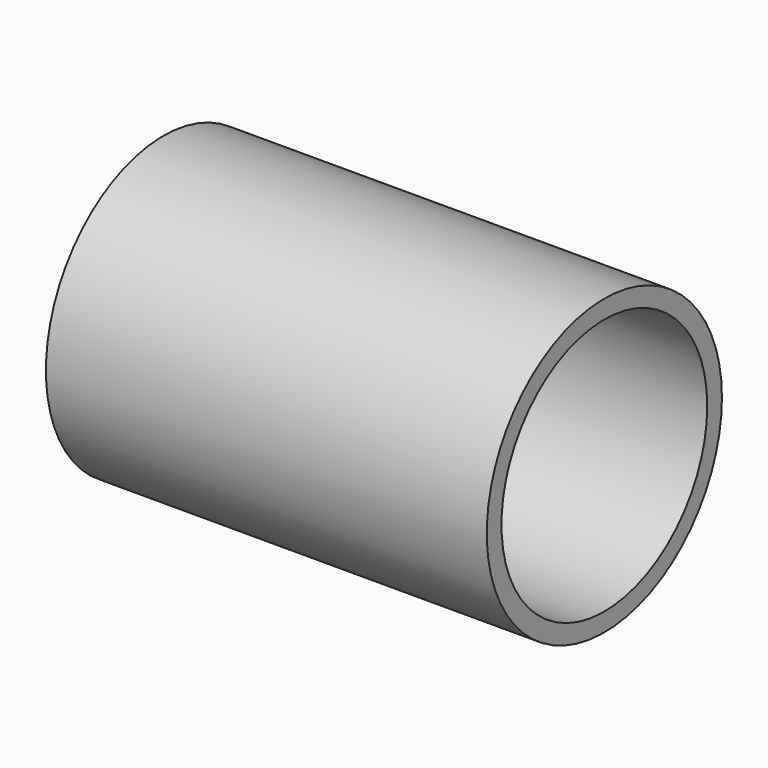
from build123d import *

# Parameters (mm, degrees)
F0_R     = 25.4
F1_DEPTH = 38.1
F2_R     = 22.225
F3_DEPTH = 33.7058
F4_R     = 5.08
F4_R_2   = 8.636
F5_DEPTH = 9.525


with BuildPart() as f1:
    # F0 (on Right) → F1 (new body, symmetric)
    with BuildSketch(Plane.YZ):
        Circle(F0_R)
    extrude(amount=F1_DEPTH, both=True)

    # F2 (on face) → F3 (cut)
    with BuildSketch(Plane.YZ.offset(38.1)):
        Circle(F2_R)
    extrude(amount=-F3_DEPTH, mode=Mode.SUBTRACT)

    # F4 (on face) → F5 (cut)
    with BuildSketch(Plane.YZ.offset(4.3942)):
        with BuildLine():
            ThreePointArc((-7.043346, 12.123346), (-10.179314, 16.816654), (-15.715448, 15.715448))
            ThreePointArc((-15.715448, 15.715448), (-14.067378, 7.430038), (-7.043346, 12.123346))
        make_face()
        with BuildLine():
            ThreePointArc((-12.065, 0), (-17.145, 5.08), (-22.225, 0))
            ThreePointArc((-22.225, 0), (-17.145, -5.08), (-12.065, 0))
        make_face()
        with BuildLine():
            ThreePointArc((-7.043346, -12.123346), (-14.067378, -7.430038), (-15.715448, -15.715448))
            ThreePointArc((-15.715448, -15.715448), (-10.179314, -16.816654), (-7.043346, -12.123346))
        make_face()
        with BuildLine():
            ThreePointArc((5.08, -17.145), (-3.592102, -13.552898), (0, -22.225))
            ThreePointArc((0, -22.225), (3.592102, -20.737102), (5.08, -17.145))
        make_face()
        with BuildLine():
            ThreePointArc((17.203346, -12.123346), (7.430038, -10.179314), (15.715448, -15.715448))
            ThreePointArc((15.715448, -15.715448), (16.816654, -14.067378), (17.203346, -12.123346))
        make_face()
        with Locations((17.145, 0)):
            Circle(F4_R)
        with BuildLine():
            ThreePointArc((17.203346, 12.123346), (16.816654, 14.067378), (15.715448, 15.715448))
            ThreePointArc((15.715448, 15.715448), (7.430038, 10.179314), (17.203346, 12.123346))
        make_face()
        with BuildLine():
            ThreePointArc((0, 22.225), (-3.592102, 13.552898), (5.08, 17.145))
            ThreePointArc((5.08, 17.145), (3.592102, 20.737102), (0, 22.225))
        make_face()
        Circle(F4_R_2)
    extrude(amount=-F5_DEPTH, mode=Mode.SUBTRACT)

    # F6 (on Top) → F7 (revolve, cut)
    with BuildSketch(Plane.XY):
        Polygon((0, 22.225), (-5.1308, 22.225), (-12.671425, 14.684375), (-38.1, 14.684375), (-38.1, 0), (0, 0), align=None)
    revolve(axis=Axis((0, 0, 0), (1, 0, 0)), mode=Mode.SUBTRACT)


solid = f1.part
